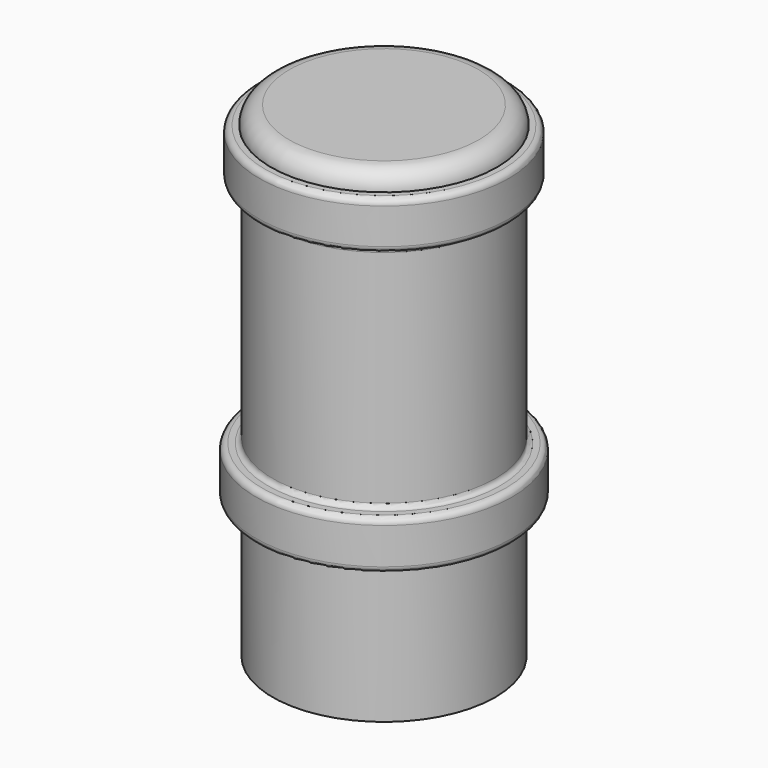
from build123d import *


with BuildPart() as f1:
    # F0 (on Front) → F1 (revolve)
    with BuildSketch(Plane.XZ):
        with BuildLine():
            Line((0, 28.087835), (0, 25.587835))
            Line((0, 25.587835), (8.515, 25.587835))
            Line((8.515, 25.587835), (8.515, -11.912165))
            Line((8.515, -11.912165), (9.176777, -11.912165))
            Line((9.176777, -11.912165), (9.176777, -0.838223))
            ThreePointArc((9.176777, -0.838223), (9.292265, -0.55941), (9.571078, -0.443922))
            Line((9.571078, -0.443922), (10.056078, -0.443922))
            ThreePointArc((10.056078, -0.443922), (10.409632, -0.297475), (10.556078, 0.056078))
            Line((10.556078, 0.056078), (10.556078, 3.056078))
            ThreePointArc((10.556078, 3.056078), (10.409632, 3.409632), (10.056078, 3.556078))
            Line((10.056078, 3.556078), (9.571078, 3.556078))
            ThreePointArc((9.571078, 3.556078), (9.292265, 3.671567), (9.176777, 3.95038))
            Line((9.176777, 3.95038), (9.176777, 22.143913))
            ThreePointArc((9.176777, 22.143913), (9.323223, 22.497467), (9.676777, 22.643913))
            Line((9.676777, 22.643913), (9.785506, 22.643913))
            ThreePointArc((9.785506, 22.643913), (10.139059, 22.79036), (10.285506, 23.143913))
            Line((10.285506, 23.143913), (10.285506, 26.087835))
            ThreePointArc((10.285506, 26.087835), (10.139059, 26.441388), (9.785506, 26.587835))
            Line((9.785506, 26.587835), (9.320526, 26.587835))
            ThreePointArc((9.320526, 26.587835), (8.881187, 27.648495), (7.820526, 28.087835))
            Line((7.820526, 28.087835), (0, 28.087835))
        make_face()
    revolve(axis=Axis((0, 0, 8.784547), (0, 0, -1)))


solid = f1.part
